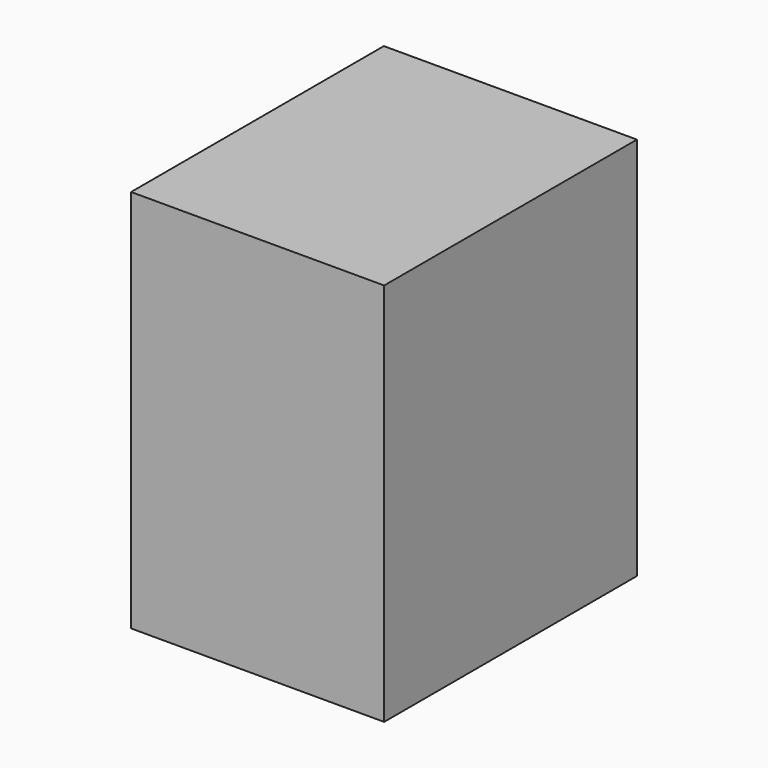
from build123d import *

# Parameters (mm, degrees)
F0_W     = 33.434838
F0_H     = 36.938924
F0_W_2   = 13.578339
F1_DEPTH = 71.374


with BuildPart() as f1:
    # F0 (on Top) → F1 (new body)
    with BuildSketch(Plane.XY):
        with Locations((16.717419, -18.469462)):
            Rectangle(F0_W, F0_H)
        with Locations((-6.789169, -18.469462)):
            Rectangle(F0_W_2, F0_H)
        Polygon((-13.578339, 0), (0, 0), (33.434838, 0), (33.434838, 21.754544), (-13.578339, 21.754544), align=None)
    extrude(amount=F1_DEPTH)


solid = f1.part
